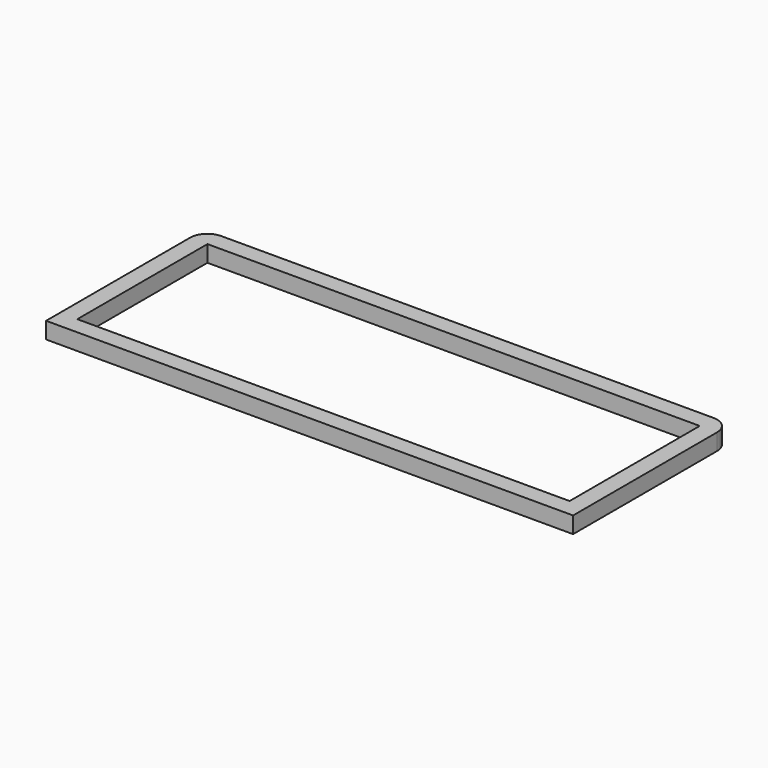
from build123d import *

# Parameters (mm, degrees)
F0_W     = 227
F0_H     = 75
F1_DEPTH = 7.6


with BuildPart() as f1:
    # F0 (on Top) → F1 (new body)
    with BuildSketch(Plane.XY):
        with BuildLine():
            Line((227, 83), (0, 83))
            ThreePointArc((0, 83), (-5.656854, 80.656854), (-8, 75))
            Line((-8, 75), (-8, 0))
            Line((-8, 0), (-8, -8))
            Line((-8, -8), (0, -8))
            Line((0, -8), (227, -8))
            Line((227, -8), (235, -8))
            Line((235, -8), (235, 0))
            Line((235, 0), (235, 75))
            ThreePointArc((235, 75), (232.656854, 80.656854), (227, 83))
        make_face()
        with Locations((113.5, 37.5)):
            Rectangle(F0_W, F0_H, mode=Mode.SUBTRACT)
    extrude(amount=F1_DEPTH)


solid = f1.part
